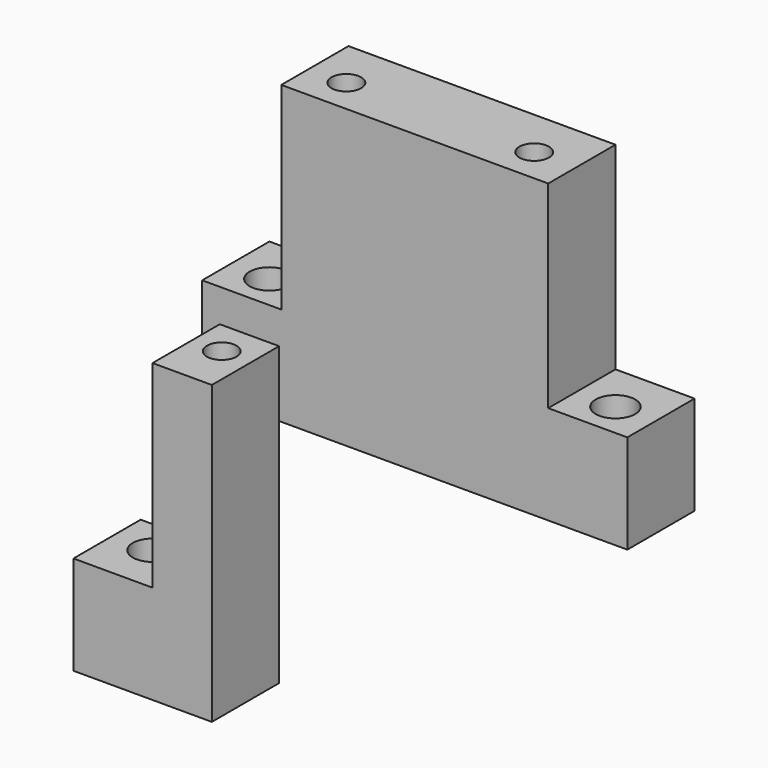
from build123d import *

# Parameters (mm, degrees)
F0_W     = 8
F0_H     = 8.5
F0_R     = 2
F0_W_2   = 27
F0_R_2   = 1.5
F1_DEPTH = 10
F2_DEPTH = 30
F0_W_3   = 6
F3_DEPTH = 10
F4_DEPTH = 30


with BuildPart() as f1:
    # F0 (on Top) → F1 (new body)
    with BuildSketch(Plane.XY):
        with Locations((-21.78, 21.75)):
            Rectangle(F0_W, F0_H)
        with Locations((-21.78, 21)):
            Circle(F0_R, mode=Mode.SUBTRACT)
        with Locations((-4.28, 21.75)):
            Rectangle(F0_W_2, F0_H)
        with Locations((-14, 21)):
            Circle(F0_R_2, mode=Mode.SUBTRACT)
        with Locations((5, 21)):
            Circle(F0_R_2, mode=Mode.SUBTRACT)
        with Locations((13.22, 21.75)):
            Rectangle(F0_W, F0_H)
        with Locations((13.22, 21)):
            Circle(F0_R, mode=Mode.SUBTRACT)
    extrude(amount=F1_DEPTH)

    # F0 (on Top) → F2 (join)
    with BuildSketch(Plane.XY):
        with Locations((-4.28, 21.75)):
            Rectangle(F0_W_2, F0_H)
        with Locations((-14, 21)):
            Circle(F0_R_2, mode=Mode.SUBTRACT)
        with Locations((5, 21)):
            Circle(F0_R_2, mode=Mode.SUBTRACT)
    extrude(amount=F2_DEPTH)


with BuildPart() as f3:
    # F0 (on Top) → F3 (new body)
    with BuildSketch(Plane.XY):
        with Locations((0, -21.75)):
            Rectangle(F0_W, F0_H)
        with Locations((0, -21)):
            Circle(F0_R, mode=Mode.SUBTRACT)
        with Locations((7, -21.75)):
            Rectangle(F0_W_3, F0_H)
        with Locations((7, -21)):
            Circle(F0_R_2, mode=Mode.SUBTRACT)
    extrude(amount=F3_DEPTH)

    # F0 (on Top) → F4 (join)
    with BuildSketch(Plane.XY):
        with Locations((7, -21.75)):
            Rectangle(F0_W_3, F0_H)
        with Locations((7, -21)):
            Circle(F0_R_2, mode=Mode.SUBTRACT)
    extrude(amount=F4_DEPTH)


solid = Compound([f1.part, f3.part])
